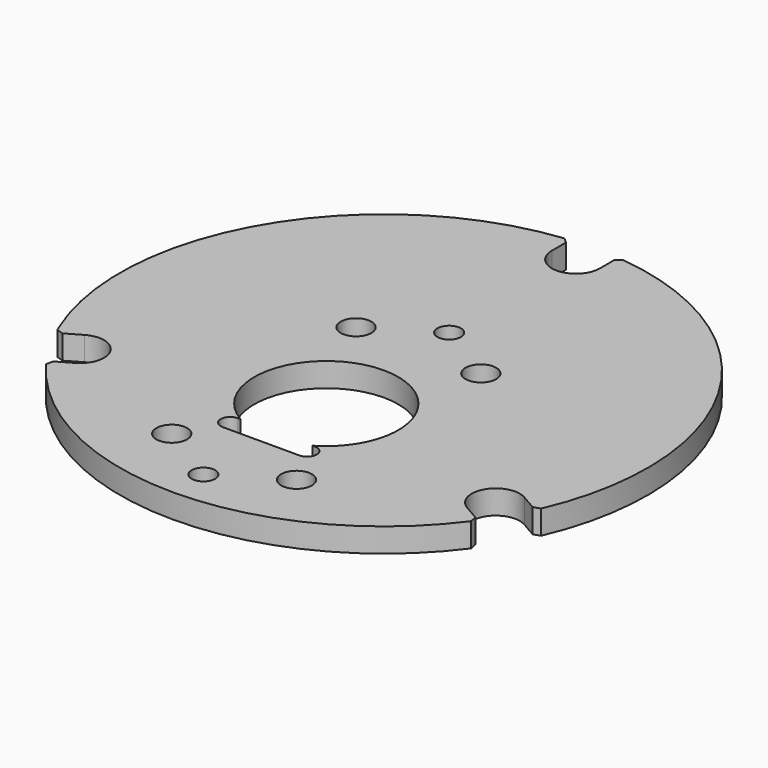
from build123d import *

# Parameters (mm, degrees)
F1_START      = 7
F0_R          = 2.45
F0_R_2        = 3.2
F0_R_3        = 15
F1_DEPTH      = 5
F3_DEPTH      = 40
F3_DEPTH_BACK = 40


with BuildPart() as f1:
    # F0 (on Top) → F1 (new body)
    with BuildSketch(Plane.XY.offset(F1_START)):
        with BuildLine():
            Line((48.9758001545, -7.5026887111), (50.3920186759, -7.0373422574))
            ThreePointArc((50.3920186759, -7.0373422574), (47.6313972081, 42.5), (6.1111111111, 69.65943945))
            Line((6.1111111111, 69.65943945), (5, 68.66563146))
            Line((5, 68.66563146), (5, 65))
            ThreePointArc((5, 65), (0, 60), (-5, 65))
            Line((-5, 65), (-5, 68.66563146))
            Line((-5, 68.66563146), (-6.1111111111, 69.65943945))
            ThreePointArc((-6.1111111111, 69.65943945), (-47.3563637716, 42.9709637004), (-50.8191344463, -6.0336771423))
            ThreePointArc((-50.8191344463, -6.0336771423), (-50.6080647229, -6.5365685522), (-50.3920186759, -7.0373422574))
            Line((-50.3920186759, -7.0373422574), (-48.9758001545, -7.5026887111))
            Line((-48.9758001545, -7.5026887111), (-45.8012701892, -5.6698729811))
            ThreePointArc((-45.8012701892, -5.6698729811), (-38.9711431703, -7.5), (-40.8012701892, -14.3301270189))
            Line((-40.8012701892, -14.3301270189), (-43.9758001545, -16.1629427489))
            Line((-43.9758001545, -16.1629427489), (-44.2809075648, -17.6220971926))
            ThreePointArc((-44.2809075648, -17.6220971926), (0, -40), (44.2809075648, -17.6220971926))
            Line((44.2809075648, -17.6220971926), (43.9758001545, -16.1629427489))
            Line((43.9758001545, -16.1629427489), (40.8012701892, -14.3301270189))
            ThreePointArc((40.8012701892, -14.3301270189), (38.9711431703, -7.5), (45.8012701892, -5.6698729811))
            Line((45.8012701892, -5.6698729811), (48.9758001545, -7.5026887111))
        make_face()
        with Locations((0, -32)):
            Circle(F0_R, mode=Mode.SUBTRACT)
        with Locations((-13, -24)):
            Circle(F0_R_2, mode=Mode.SUBTRACT)
        Circle(F0_R_3, mode=Mode.SUBTRACT)
        with Locations((13, -24)):
            Circle(F0_R_2, mode=Mode.SUBTRACT)
        with Locations((-13, 24)):
            Circle(F0_R_2, mode=Mode.SUBTRACT)
        with Locations((0, 32)):
            Circle(F0_R, mode=Mode.SUBTRACT)
        with Locations((13, 24)):
            Circle(F0_R_2, mode=Mode.SUBTRACT)
    extrude(amount=F1_DEPTH)

    # F2 (on Top) → F3 (cut, two sides)
    with BuildSketch(Plane.XY) as f3_sk:
        with BuildLine():
            Line((0, -13), (-8, -13))
            ThreePointArc((-8, -13), (-10, -15), (-8, -17))
            Line((-8, -17), (0, -17))
            Line((0, -17), (8, -17))
            ThreePointArc((8, -17), (10, -15), (8, -13))
            Line((8, -13), (0, -13))
        make_face()
    extrude(amount=-F3_DEPTH, mode=Mode.SUBTRACT)
    extrude(f3_sk.sketch, amount=F3_DEPTH_BACK, mode=Mode.SUBTRACT)


solid = f1.part
